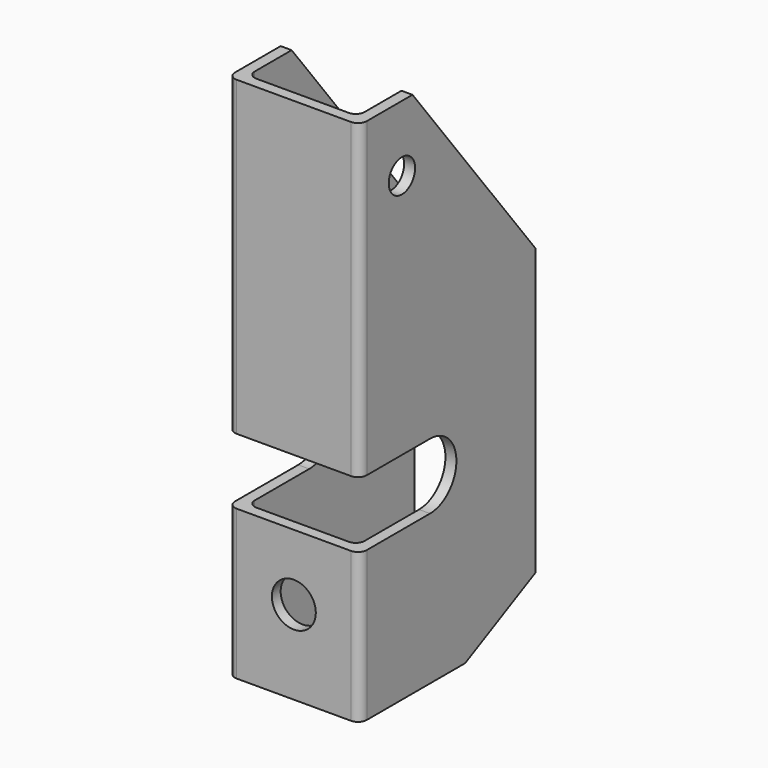
from build123d import *

# Parameters (mm, degrees)
F1_DEPTH = 38.1
F2_W     = 31.75
F2_H     = 73.025
F3_DEPTH = 152.401
F4_R     = 2.54
F5_R     = 2.54
F6_R     = 6.35
F7_DEPTH = 25.4
F8_R     = 4.7625
F9_DEPTH = 38.101


with BuildPart() as f1:
    # F0 (on Right) → F1 (new body)
    with BuildSketch(Plane.YZ):
        with BuildLine():
            Line((-57.15, 76.2), (-76.2, 76.2))
            Line((-76.2, 76.2), (-76.2, -13.9112576244))
            Line((-76.2, -13.9112576244), (-50.8, -13.9112576244))
            ThreePointArc((-50.8, -13.9112576244), (-41.275, -23.4362576244), (-50.8, -32.9612576244))
            Line((-50.8, -32.9612576244), (-76.2, -32.9612576244))
            Line((-76.2, -32.9612576244), (-76.2, -76.2))
            Line((-76.2, -76.2), (-38.1, -76.2))
            Line((-38.1, -76.2), (-12.7, -63.5))
            Line((-12.7, -63.5), (-12.7, 19.05))
            Line((-12.7, 19.05), (-57.15, 76.2))
        make_face()
    extrude(amount=F1_DEPTH)

    # F2 (on face) → F3 (cut, through all)
    with BuildSketch(Plane.XY.offset(76.2)):
        with Locations((19.05, -36.5125)):
            Rectangle(F2_W, F2_H)
    extrude(amount=-F3_DEPTH, mode=Mode.SUBTRACT)

    # F4
    f4_edges = [f1.edges().sort_by_distance(p)[0] for p in [
        (3.175, -73.025, 31.144371),
        (34.925, -73.025, 31.144371),
        (34.925, -73.025, -54.580629),
        (3.175, -73.025, -54.580629),
    ]]
    fillet(f4_edges, radius=F4_R)

    # F5
    f5_edges = [f1.edges().sort_by_distance(p)[0] for p in [
        (38.1, -76.2, -54.580629),
        (0, -76.2, -54.580629),
        (0, -76.2, 31.144371),
        (38.1, -76.2, 31.144371),
    ]]
    fillet(f5_edges, radius=F5_R)

    # F6 (on face) → F7 (cut)
    with BuildSketch(Plane.XZ.offset(76.2)):
        with Locations((19.05, -52.0112576244)):
            Circle(F6_R)
    extrude(amount=-F7_DEPTH, mode=Mode.SUBTRACT)

    # F8 (on face) → F9 (cut, through all)
    with BuildSketch(Plane.YZ.offset(38.1)):
        with Locations((-60.96, 57.15)):
            Circle(F8_R)
    extrude(amount=-F9_DEPTH, mode=Mode.SUBTRACT)


solid = f1.part
